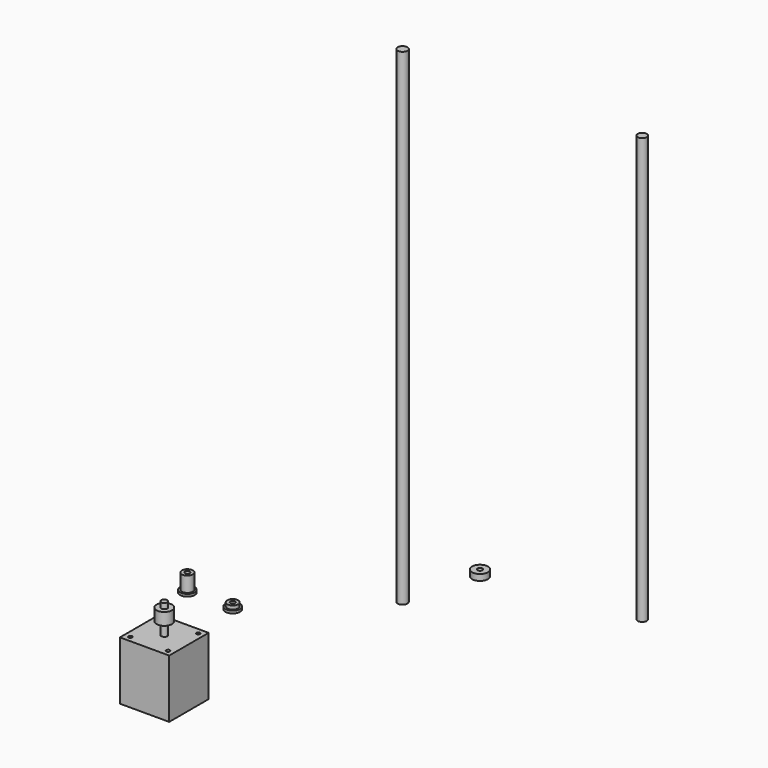
from build123d import *

# Parameters (mm, degrees)
F0_R      = 4
F1_DEPTH  = 400
F0_R_2    = 6.5
F0_R_3    = 2
F2_DEPTH  = 5
F3_W      = 40.5
F3_H      = 40.5
F3_R      = 1.5
F3_R_2    = 6.365
F3_R_3    = 2.5
F4_DEPTH  = 48
F5_DEPTH  = 4
F6_DEPTH  = 24.5
F7_START  = 10
F7_DEPTH  = 10
F8_R      = 3.75
F9_DEPTH  = 350
F0_R_4    = 6
F0_R_5    = 4.5
F10_DEPTH = 2
F11_DEPTH = 14.5
F12_DEPTH = 5


with BuildPart() as f1:
    # F0 (on Top) → F1 (new body)
    with BuildSketch(Plane.XY):
        with Locations((-93.7674194574, -34.8533689976)):
            Circle(F0_R)
    extrude(amount=F1_DEPTH)


with BuildPart() as f2:
    # F0 (on Top) → F2 (new body)
    with BuildSketch(Plane.XY):
        with Locations((-77.1600455046, 23.9324606955)):
            Circle(F0_R_2)
        with Locations((-77.1600455046, 23.9324606955)):
            Circle(F0_R_3, mode=Mode.SUBTRACT)
    extrude(amount=F2_DEPTH)


with BuildPart() as f4:
    # F3 (on Top) → F4 (new body)
    with BuildSketch(Plane.XY):
        with Locations((-184.3076050282, -166.4714962244)):
            Rectangle(F3_W, F3_H)
        with Locations((-199.8076050282, -181.9714962244)):
            Circle(F3_R, mode=Mode.SUBTRACT)
        with Locations((-168.8076050282, -181.9714962244)):
            Circle(F3_R, mode=Mode.SUBTRACT)
        with Locations((-184.3076050282, -166.4714962244)):
            Circle(F3_R_2, mode=Mode.SUBTRACT)
        with Locations((-199.8076050282, -150.9714962244)):
            Circle(F3_R, mode=Mode.SUBTRACT)
        with Locations((-168.8076050282, -150.9714962244)):
            Circle(F3_R, mode=Mode.SUBTRACT)
        with Locations((-184.3076050282, -166.4714962244)):
            Circle(F3_R_2)
        with Locations((-184.3076050282, -166.4714962244)):
            Circle(F3_R_3, mode=Mode.SUBTRACT)
        with Locations((-184.3076050282, -166.4714962244)):
            Circle(F3_R_3)
        with Locations((-199.8076050282, -181.9714962244)):
            Circle(F3_R)
        with Locations((-199.8076050282, -150.9714962244)):
            Circle(F3_R)
        with Locations((-168.8076050282, -150.9714962244)):
            Circle(F3_R)
        with Locations((-168.8076050282, -181.9714962244)):
            Circle(F3_R)
    extrude(amount=-F4_DEPTH)

    # F3 (on Top) → F5 (cut)
    with BuildSketch(Plane.XY):
        with Locations((-199.8076050282, -150.9714962244)):
            Circle(F3_R)
        with Locations((-199.8076050282, -181.9714962244)):
            Circle(F3_R)
        with Locations((-168.8076050282, -181.9714962244)):
            Circle(F3_R)
        with Locations((-168.8076050282, -150.9714962244)):
            Circle(F3_R)
    extrude(amount=-F5_DEPTH, mode=Mode.SUBTRACT)

    # F3 (on Top) → F6 (join)
    with BuildSketch(Plane.XY):
        with Locations((-184.3076050282, -166.4714962244)):
            Circle(F3_R_3)
    extrude(amount=F6_DEPTH)

    # F3 (on Top) → F7 (join)
    with BuildSketch(Plane.XY.offset(F7_START)):
        with Locations((-184.3076050282, -166.4714962244)):
            Circle(F3_R_2)
        with Locations((-184.3076050282, -166.4714962244)):
            Circle(F3_R_3, mode=Mode.SUBTRACT)
    extrude(amount=F7_DEPTH)


with BuildPart() as f9:
    # F8 (on Top) → F9 (new body)
    with BuildSketch(Plane.XY):
        with Locations((41.4948910475, 42.2877818346)):
            Circle(F8_R)
    extrude(amount=F9_DEPTH)


with BuildPart() as f10:
    # F0 (on Top) → F10 (new body)
    with BuildSketch(Plane.XY):
        with Locations((-209.7740024328, -110.8937934041)):
            Circle(F0_R_4)
        with Locations((-209.7740024328, -110.8937934041)):
            Circle(F0_R_5, mode=Mode.SUBTRACT)
        with Locations((-209.7740024328, -110.8937934041)):
            Circle(F0_R_5)
        with Locations((-209.7740024328, -110.8937934041)):
            Circle(F0_R_3, mode=Mode.SUBTRACT)
    extrude(amount=F10_DEPTH)

    # F0 (on Top) → F11 (join)
    with BuildSketch(Plane.XY):
        with Locations((-209.7740024328, -110.8937934041)):
            Circle(F0_R_5)
        with Locations((-209.7740024328, -110.8937934041)):
            Circle(F0_R_3, mode=Mode.SUBTRACT)
    extrude(amount=F11_DEPTH)


with BuildPart() as f10b:
    # F0 (on Top) → F10, piece 2 (new body)
    with BuildSketch(Plane.XY):
        with Locations((-172.5040376186, -110.8937934041)):
            Circle(F0_R_4)
        with Locations((-172.5040376186, -110.8937934041)):
            Circle(F0_R_5, mode=Mode.SUBTRACT)
        with Locations((-172.5040376186, -110.8937934041)):
            Circle(F0_R_5)
        with Locations((-172.5040376186, -110.8937934041)):
            Circle(F0_R_3, mode=Mode.SUBTRACT)
    extrude(amount=F10_DEPTH)

    # F0 (on Top) → F12 (join)
    with BuildSketch(Plane.XY):
        with Locations((-172.5040376186, -110.8937934041)):
            Circle(F0_R_5)
        with Locations((-172.5040376186, -110.8937934041)):
            Circle(F0_R_3, mode=Mode.SUBTRACT)
    extrude(amount=F12_DEPTH)


solid = Compound([f1.part, f2.part, f4.part, f9.part, f10.part, f10b.part])
